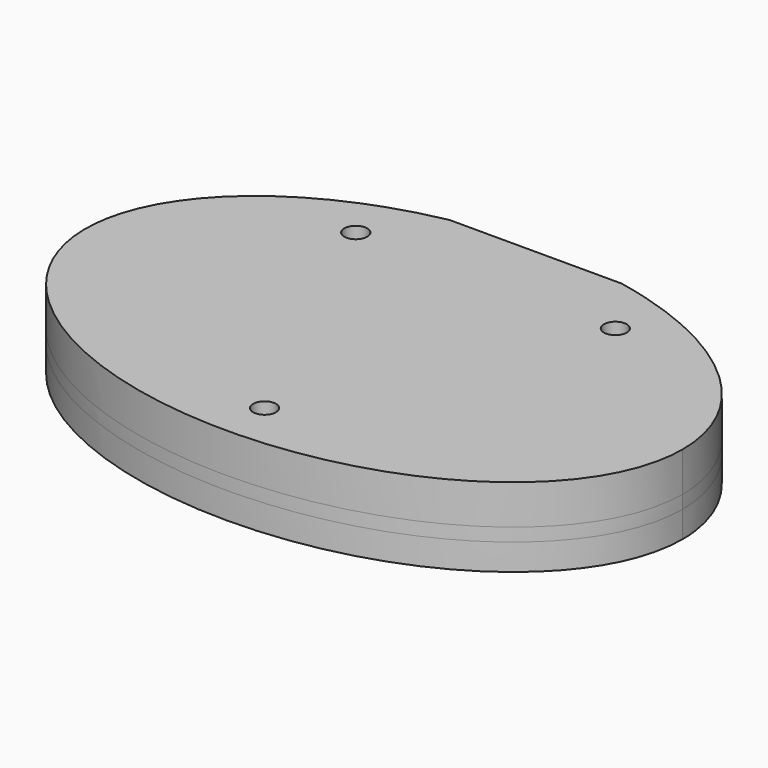
from build123d import *

# Parameters (mm, degrees)
BOX_BOTTOM_HALF_0_W     = 69.994952
BOX_BOTTOM_HALF_0_H     = 46.031044
BOX_BOTTOM_HALF_0_DEPTH = 5.5
PAD_DEPTH               = 6
POCKET_DEPTH            = 3
PAD001_DEPTH            = 3
SKETCH003_W             = 56
SKETCH003_H             = 2.88
POCKET001_DEPTH         = 3
SKETCH004_W             = 19.6
SKETCH004_H             = 1
POCKET002_DEPTH         = 9.001
SKETCH005_R             = 1.3
POCKET003_DEPTH         = 9.001


with BuildPart() as box_bottom_half_0_body:
    # box_bottom_half_0 → box_bottom_half_0 (new body)
    with BuildSketch(Plane(origin=(-34.994952, -23.485952, -4), x_dir=(1, 0, 0), z_dir=(0, 0, 1))):
        with Locations((34.997476, 23.015522)):
            Rectangle(BOX_BOTTOM_HALF_0_W, BOX_BOTTOM_HALF_0_H)
    extrude(amount=BOX_BOTTOM_HALF_0_DEPTH)


with BuildPart() as body:
    # Sketch → Pad (new body)
    with BuildSketch(Plane.XY):
        with BuildLine():
            add(Edge.make_bspline(
                [(34, 0), (34, 38.971143), (-17, 19.485572), (-68, 0), (-17, -19.485572), (34, -38.971143), (34, 0)],
                knots=[0, 0, 0, 2.094395, 2.094395, 4.18879, 4.18879, 6.283185, 6.283185, 6.283185], degree=2, weights=[1, 0.5, 1, 0.5, 1, 0.5, 1]))
        make_face()
    extrude(amount=PAD_DEPTH)

    # Sketch001 (on Face2 of Pad) → Pocket (cut)
    with BuildSketch(Plane(origin=(0, 0, 0), x_dir=(1, 0, 0), z_dir=(0, 0, -1))):
        Polygon((9.775, -3.450064), (9.775, -21.550064), (-9.775, -21.550064), (-9.775, -3.450064), (-28.5, -3.450064), (-28.5, 8.549936), (28.5, 8.549936), (28.5, -3.450064), align=None)
    extrude(amount=-POCKET_DEPTH, mode=Mode.SUBTRACT)

    # Sketch002 (on Face2 of Pocket) → Pad001 (join)
    with BuildSketch(Plane(origin=(0, 0, 0), x_dir=(1, 0, 0), z_dir=(0, 0, -1))):
        with BuildLine():
            add(Edge.make_bspline(
                [(34, 0), (34, 38.971143), (-17, 19.485572), (-68, 0), (-17, -19.485572), (34, -38.971143), (34, 0)],
                knots=[0, 0, 0, 2.094395, 2.094395, 4.18879, 4.18879, 6.283185, 6.283185, 6.283185], degree=2, weights=[1, 0.5, 1, 0.5, 1, 0.5, 1]))
        make_face()
    extrude(amount=PAD001_DEPTH)

    # Sketch003 (on Face4 of Pad001) → Pocket001 (cut)
    with BuildSketch(Plane(origin=(0, 0, -3), x_dir=(1, 0, 0), z_dir=(0, 0, -1))):
        with Locations((0, 2.549936)):
            Rectangle(SKETCH003_W, SKETCH003_H)
    extrude(amount=-POCKET001_DEPTH, mode=Mode.SUBTRACT)

    # Sketch004 (on Face4 of Pocket001) → Pocket002 (cut, through all)
    with BuildSketch(Plane(origin=(0, 0, -3), x_dir=(1, 0, 0), z_dir=(0, 0, -1))):
        with Locations((0, -22.045091)):
            Rectangle(SKETCH004_W, SKETCH004_H)
    extrude(amount=-POCKET002_DEPTH, mode=Mode.SUBTRACT)

    # Sketch005 (on Face7 of Pocket002) → Pocket003 (cut, through all)
    with BuildSketch(Plane(origin=(0, 0, -3), x_dir=(1, 0, 0), z_dir=(0, 0, -1))):
        with Locations((-14.775, -14.450064)):
            Circle(SKETCH005_R)
        with Locations((0, 17)):
            Circle(SKETCH005_R)
        with Locations((14.775, -14.450064)):
            Circle(SKETCH005_R)
    extrude(amount=-POCKET003_DEPTH, mode=Mode.SUBTRACT)


with BuildPart() as bottom_half_0_body:
    # bottom_half_0 base: copy of Body
    add(body.part)

    # bottom_half_0: intersect box_bottom_half_0 body
    add(box_bottom_half_0_body.part, mode=Mode.INTERSECT)


with BuildPart() as top_half_0_body:
    # top_half_0 base: copy of Body
    add(body.part)

    # top_half_0: cut box_bottom_half_0 body
    add(box_bottom_half_0_body.part, mode=Mode.SUBTRACT)


solid = Compound([bottom_half_0_body.part, top_half_0_body.part])
